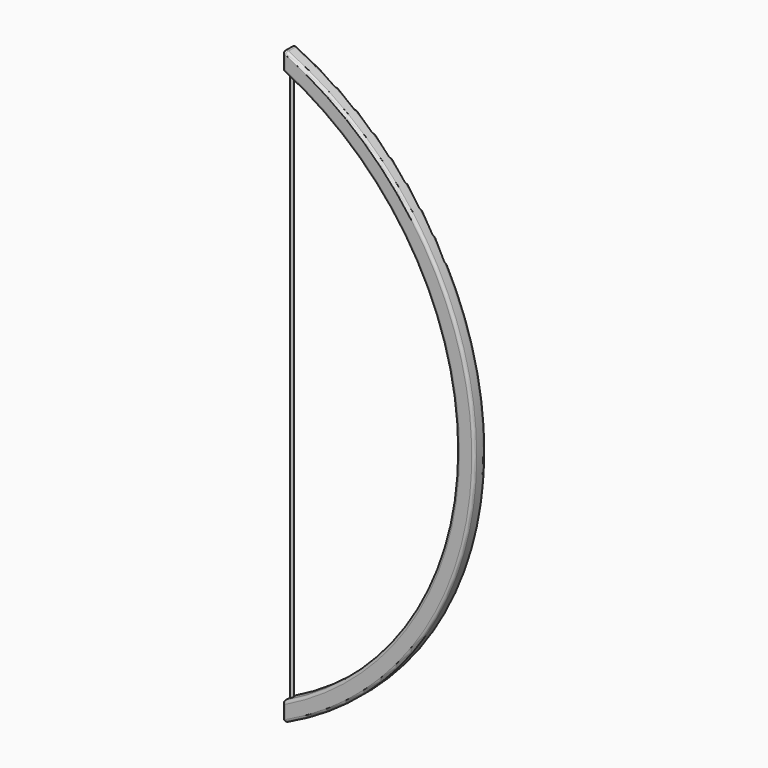
from build123d import *

# Parameters (mm, degrees)
F1_DEPTH      = 1.27
F2_R          = 0.254
F3_R          = 0.135782909
F4_DEPTH      = 26.97885
F4_DEPTH_BACK = 25.4
F6_DEPTH      = 25.4
F6_DEPTH_BACK = 25.4


with BuildPart() as f1:
    # F0 (on Front) → F1 (new body)
    with BuildSketch(Plane.XZ):
        with BuildLine():
            Line((0, -24.4641060061), (0, -26.2421060061))
            ThreePointArc((0, -26.2421060061), (17.6028633466, 0.9643622648), (0, 28.1708305358))
            Line((0, 28.1708305358), (0, 26.3928305358))
            ThreePointArc((0, 26.3928305358), (15.9768513956, 0.9643622648), (0, -24.4641060061))
        make_face()
    extrude(amount=F1_DEPTH)

    # F2
    f2_edges = [f1.edges().sort_by_distance(p)[0] for p in [
        (0, -0.635, 26.392831),
        (0, -1.27, 27.281831),
        (0, 0, 27.281831),
        (0, -0.635, 28.170831),
        (17.602863, -1.27, 0.964362),
        (17.602863, 0, 0.964362),
        (15.976851, -1.27, 0.964362),
        (15.976851, 0, 0.964362),
        (0, -0.635, -24.464106),
        (0, 0, -25.353106),
        (0, -0.635, -26.242106),
        (0, -1.27, -25.353106),
    ]]
    fillet(f2_edges, radius=F2_R)

    # F5 (on Right) → F6 (cut, two sides)
    with BuildSketch(Plane.YZ) as f6_sk:
        Polygon((-0.2504991426, 0), (0, 0), (0, 0.3233448078), align=None)
    extrude(amount=-F6_DEPTH, mode=Mode.SUBTRACT)
    extrude(f6_sk.sketch, amount=F6_DEPTH_BACK, mode=Mode.SUBTRACT)


with BuildPart() as f4:
    # F3 (on Top) → F4 (new body, two sides)
    with BuildSketch(Plane.XY) as f4_sk:
        with Locations((0.3584586375, -0.6021122681)):
            Circle(F3_R)
    extrude(amount=F4_DEPTH)
    extrude(f4_sk.sketch, amount=-F4_DEPTH_BACK)


solid = Compound([f1.part, f4.part])
